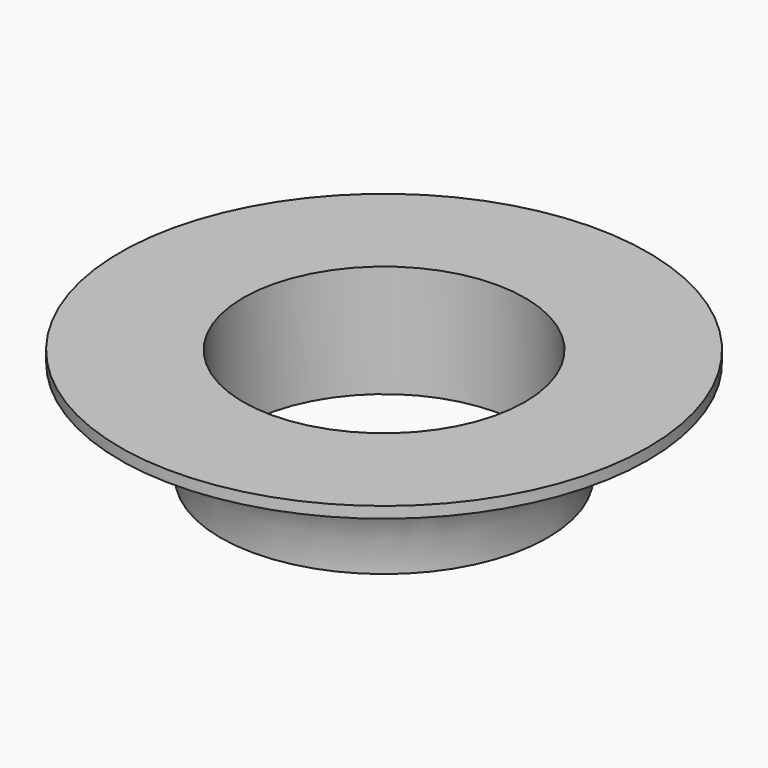
from build123d import *


with BuildPart() as f1:
    # F0 (on Front) → F1 (revolve)
    with BuildSketch(Plane.XZ):
        with BuildLine():
            Line((23.5, 10), (12.55, 10))
            Line((12.55, 10), (12.55, 0))
            Line((12.55, 0), (14.55, 0))
            add(Edge.make_bspline(
                [(23.5, 9), (18.563576, 9.380028), (14.308841, 6.348529), (14.55, 0)],
                knots=[0, 0, 0, 0, 12.692616, 12.692616, 12.692616, 12.692616], degree=3))
            Line((23.5, 9), (23.5, 10))
        make_face()
    revolve(axis=Axis((0, 0, 1.530834), (0, 0, -1)))


solid = f1.part
